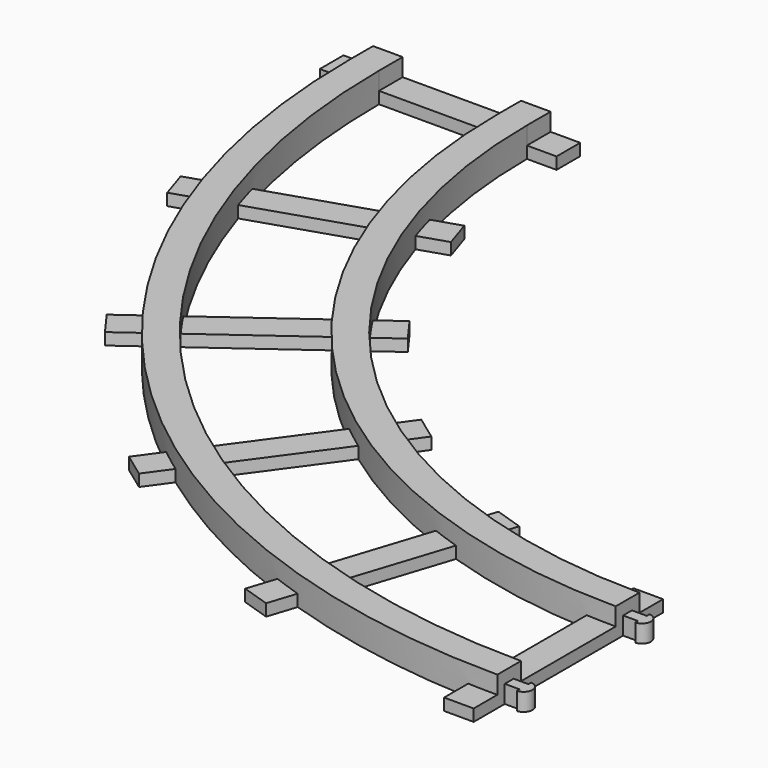
from build123d import *

# Parameters (mm, degrees)
F1_DEPTH = 6.35
F2_W     = 6.35
F2_H     = 50.8
F2_W_2   = 50.8
F2_H_2   = 6.35
F3_DEPTH = 2.54
F4_W     = 6.35
F4_H     = 6.35
F5_DEPTH = 6.35
F7_DEPTH = 3.81
F9_DEPTH = 3.81


with BuildPart() as f1:
    # F0 (on Top) → F1 (new body)
    with BuildSketch(Plane.XY):
        with BuildLine():
            Line((76.2, -82.55), (76.2, -76.2))
            ThreePointArc((76.2, -76.2), (-31.563073, -31.563073), (-76.2, 76.2))
            Line((-76.2, 76.2), (-82.55, 76.2))
            ThreePointArc((-82.55, 76.2), (-36.053202, -36.053202), (76.2, -82.55))
        make_face()
        with BuildLine():
            ThreePointArc((-50.8, 76.2), (-13.602561, -13.602561), (76.2, -50.8))
            Line((76.2, -50.8), (76.2, -44.45))
            ThreePointArc((76.2, -44.45), (-9.112433, -9.112433), (-44.45, 76.2))
            Line((-44.45, 76.2), (-50.8, 76.2))
        make_face()
    extrude(amount=F1_DEPTH)

    # F2 (on Top) → F3 (join)
    with BuildSketch(Plane.XY):
        with Locations((73.025, -63.5)):
            Rectangle(F2_W, F2_H)
        Polygon((25.181294, -80.819431), (40.879358, -32.50576), (34.840149, -30.543502), (19.142085, -78.857173), align=None)
        Polygon((-20.843345, -57.368706), (9.016146, -16.270642), (3.878888, -12.538206), (-25.980603, -53.636269), align=None)
        Polygon((-57.368706, -20.843345), (-16.270642, 9.016146), (-20.003079, 14.153404), (-61.101142, -15.706087), align=None)
        Polygon((-80.819431, 25.181294), (-32.50576, 40.879358), (-34.468018, 46.918566), (-82.781689, 31.220503), align=None)
        with Locations((-63.5, 79.375)):
            Rectangle(F2_W_2, F2_H_2)
    extrude(amount=F3_DEPTH)

    # F4 (on Top) → F5 (join)
    with BuildSketch(Plane.XY):
        with Locations((-79.375, 79.375)):
            Rectangle(F4_W, F4_H)
        with Locations((-47.625, 79.375)):
            Rectangle(F4_W, F4_H)
    extrude(amount=F5_DEPTH)

    # F6 (on face) → F7 (join)
    with BuildSketch(Plane(origin=(0, 0, 0), x_dir=(1, 0, 0), z_dir=(0, 0, -1))):
        with BuildLine():
            Line((76.2, 80.56626), (76.2, 79.37627))
            Line((76.2, 79.37627), (76.2, 78.18628))
            Line((76.2, 78.18628), (79.375, 78.18628))
            Line((79.375, 78.18628), (79.375, 77.47254))
            ThreePointArc((79.375, 77.47254), (81.210451, 79.37627), (79.375, 81.28))
            Line((79.375, 81.28), (79.375, 80.56626))
            Line((79.375, 80.56626), (76.2, 80.56626))
        make_face()
        with BuildLine():
            Line((76.2, 47.62373), (76.2, 46.43374))
            Line((76.2, 46.43374), (79.375, 46.43374))
            Line((79.375, 46.43374), (79.375, 45.72))
            ThreePointArc((79.375, 45.72), (81.210451, 47.62373), (79.375, 49.52746))
            Line((79.375, 49.52746), (79.375, 48.81372))
            Line((79.375, 48.81372), (76.2, 48.81372))
            Line((76.2, 48.81372), (76.2, 47.62373))
        make_face()
    extrude(amount=-F7_DEPTH)

    # F8 (on face) → F9 (cut)
    with BuildSketch(Plane(origin=(0, 0, 0), x_dir=(1, 0, 0), z_dir=(0, 0, -1))):
        with BuildLine():
            Line((-80.56626, -82.55), (-79.37627, -82.55))
            Line((-79.37627, -82.55), (-78.18628, -82.55))
            Line((-78.18628, -82.55), (-78.18628, -79.375))
            Line((-78.18628, -79.375), (-77.47254, -79.375))
            ThreePointArc((-77.47254, -79.375), (-79.37627, -77.539549), (-81.28, -79.375))
            Line((-81.28, -79.375), (-80.56626, -79.375))
            Line((-80.56626, -79.375), (-80.56626, -82.55))
        make_face()
        with BuildLine():
            Line((-49.52746, -79.375), (-48.81372, -79.375))
            Line((-48.81372, -79.375), (-48.81372, -82.55))
            Line((-48.81372, -82.55), (-47.62373, -82.55))
            Line((-47.62373, -82.55), (-46.43374, -82.55))
            Line((-46.43374, -82.55), (-46.43374, -79.375))
            Line((-46.43374, -79.375), (-45.72, -79.375))
            ThreePointArc((-45.72, -79.375), (-47.62373, -77.539549), (-49.52746, -79.375))
        make_face()
    extrude(amount=-F9_DEPTH, mode=Mode.SUBTRACT)


solid = f1.part
